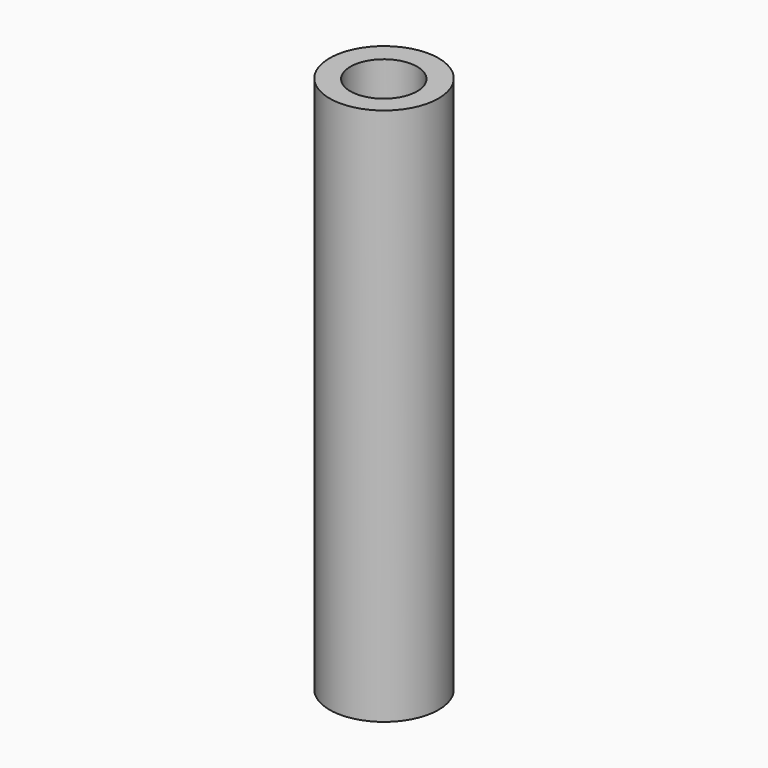
from build123d import *

# Parameters (mm, degrees)
F0_R     = 77.158753
F1_DEPTH = 762
F2_R     = 47.265675
F3_DEPTH = 381


with BuildPart() as f1:
    # F0 (on Top) → F1 (new body)
    with BuildSketch(Plane.XY):
        with Locations((-0.753832, 1.436686)):
            Circle(F0_R)
    extrude(amount=F1_DEPTH)

    # F2 (on face) → F3 (cut)
    with BuildSketch(Plane.XY.offset(762)):
        Circle(F2_R)
    extrude(amount=-F3_DEPTH, mode=Mode.SUBTRACT)


solid = f1.part
